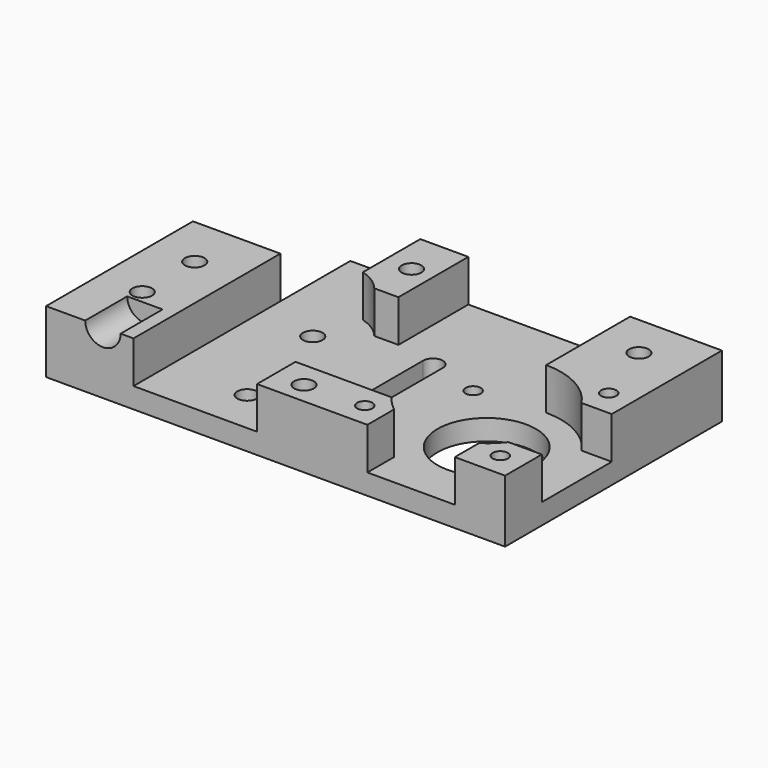
from build123d import *

# Parameters (mm, degrees)
SKETCH_R        = 2.25
SKETCH_R_2      = 11.25
SKETCH_R_3      = 1.75
PAD_DEPTH       = 14.3
POCKET_DEPTH    = 9.6
SKETCH004_R     = 2.25
POCKET003_DEPTH = 10
SKETCH005_R     = 4.05
POCKET004_DEPTH = 12
SKETCH006_R     = 3.75
POCKET005_DEPTH = 9.2


with BuildPart() as part:
    # Sketch → Pad (new body)
    with BuildSketch(Plane.XY):
        Polygon((0, 0), (105, 0), (105, 62), (20, 62), (20, 42), (0, 42), align=None)
        with Locations((38, 10)):
            Circle(SKETCH_R, mode=Mode.SUBTRACT)
        with Locations((33, 35)):
            Circle(SKETCH_R, mode=Mode.SUBTRACT)
        with Locations((84, 21)):
            Circle(SKETCH_R_2, mode=Mode.SUBTRACT)
        with Locations((68.5, 36.5)):
            Circle(SKETCH_R_3, mode=Mode.SUBTRACT)
        with Locations((99.5, 36.5)):
            Circle(SKETCH_R_3, mode=Mode.SUBTRACT)
        with Locations((68.5, 5.5)):
            Circle(SKETCH_R_3, mode=Mode.SUBTRACT)
        with Locations((99.5, 5.5)):
            Circle(SKETCH_R_3, mode=Mode.SUBTRACT)
        with Locations((10, 30)):
            Circle(SKETCH_R, mode=Mode.SUBTRACT)
        with Locations((10, 15)):
            Circle(SKETCH_R, mode=Mode.SUBTRACT)
        with Locations((42, 52)):
            Circle(SKETCH_R, mode=Mode.SUBTRACT)
        with Locations((94, 52)):
            Circle(SKETCH_R, mode=Mode.SUBTRACT)
        with BuildLine():
            Line((58.75, 25), (58.75, 39.999999))
            ThreePointArc((58.75, 39.999999), (56.5, 42.25), (54.25, 39.999998))
            Line((54.25, 25.000001), (54.25, 39.999998))
            ThreePointArc((54.25, 25.000001), (56.5, 22.75), (58.75, 25))
        make_face(mode=Mode.SUBTRACT)
    extrude(amount=PAD_DEPTH)

    # Sketch001 → Pocket (cut)
    with BuildSketch(Plane.XY.offset(14.3)):
        with BuildLine():
            ThreePointArc((41.485277, 42), (39.015593, 44.209375), (35.999996, 45.583005))
            Line((35.999996, 67), (35.999996, 45.583005))
            Line((20, 67), (35.999996, 67))
            Line((20, -1), (20, 67))
            Line((20, -1), (48.252269, -1))
            Line((48.252269, 11), (48.252269, -1))
            Line((48.252269, 11), (70.252269, 11))
            ThreePointArc((70.252269, 11), (71.759618, 9.202833), (73.499996, 7.630258))
            Line((73.499996, 7.630258), (73.499996, -1))
            Line((73.499996, -1), (93.499996, -1))
            Line((93.499996, -1), (93.499996, 6.902128))
            ThreePointArc((93.499996, 6.902128), (95.574295, 8.548671), (97.367695, 10.497399))
            Line((105.499996, 10.497399), (97.367695, 10.497399))
            Line((105.499996, 30.497399), (105.499996, 10.497399))
            Line((98.099621, 30.497399), (105.499996, 30.497399))
            ThreePointArc((98.099621, 30.497399), (91.98574, 36.007594), (83.999996, 38))
            Line((83.999996, 38), (83.999996, 67))
            Line((83.999996, 67), (46.999996, 67))
            Line((46.999996, 67), (46.999996, 42))
            Line((41.485277, 42), (46.999996, 42))
        make_face()
    extrude(amount=-POCKET_DEPTH, mode=Mode.SUBTRACT)

    # Sketch004 → Pocket003 (cut)
    with BuildSketch(Plane.XY.offset(14.3)):
        with Locations((55, 5)):
            Circle(SKETCH004_R)
    extrude(amount=-POCKET003_DEPTH, mode=Mode.SUBTRACT)

    # Sketch005 → Pocket004 (cut)
    with BuildSketch(Plane.XZ):
        with Locations((13, 14.3)):
            Circle(SKETCH005_R)
    extrude(amount=-POCKET004_DEPTH, mode=Mode.SUBTRACT)

    # Sketch006 → Pocket005 (cut)
    with BuildSketch(Plane(origin=(0, 0, 0), x_dir=(1, 0, 0), z_dir=(0, 0, -1))):
        with Locations((10, -15)):
            Circle(SKETCH006_R)
        with Locations((10, -30)):
            Circle(SKETCH006_R)
        with Locations((42, -52)):
            Circle(SKETCH006_R)
        with Locations((94, -52)):
            Circle(SKETCH006_R)
    extrude(amount=-POCKET005_DEPTH, mode=Mode.SUBTRACT)


solid = part.part
